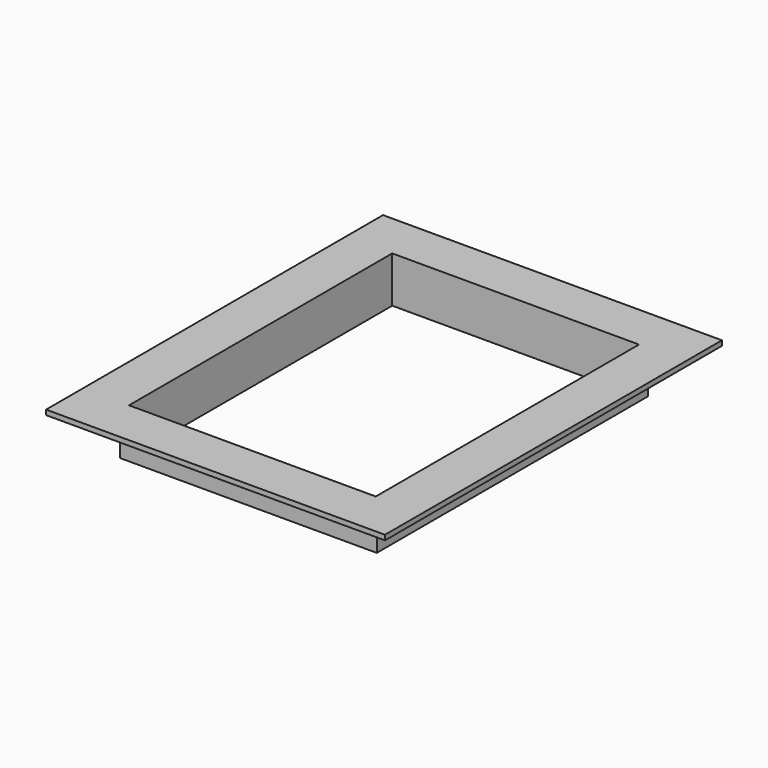
from build123d import *

# Parameters (mm, degrees)
SKETCH051_W  = 300
SKETCH051_H  = 60
PAD010_DEPTH = 200
SKETCH052_W  = 312
SKETCH052_H  = 50
PAD011_DEPTH = 206
SKETCH053_W  = 412
SKETCH053_H  = 512
PAD012_DEPTH = 6


with BuildPart() as body008:
    # Sketch051 → Pad010 (new body, symmetric)
    with BuildSketch(Plane.XZ):
        with Locations((0, 30)):
            Rectangle(SKETCH051_W, SKETCH051_H)
    extrude(amount=PAD010_DEPTH, both=True)


with BuildPart() as cut006:
    # Sketch052 → Pad011 (new body, symmetric)
    with BuildSketch(Plane.XZ):
        with Locations((0, 25)):
            Rectangle(SKETCH052_W, SKETCH052_H)
    extrude(amount=PAD011_DEPTH, both=True)

    # Sketch053 (on Face3 of Pad011) → Pad012 (join)
    with BuildSketch(Plane(origin=(0, 0, 50), x_dir=(-1, 0, 0), z_dir=(0, 0, 1))):
        Rectangle(SKETCH053_W, SKETCH053_H)
    extrude(amount=PAD012_DEPTH)

    # Cut006: cut Body008
    add(body008.part, mode=Mode.SUBTRACT)


solid = cut006.part
